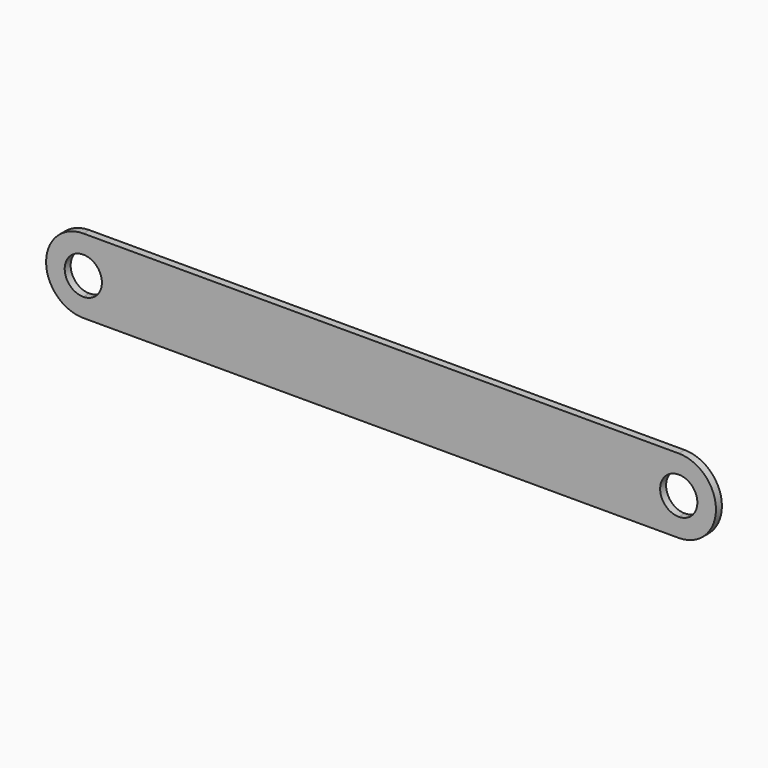
from build123d import *

# Parameters (mm, degrees)
F1_DEPTH = 0.635


with BuildPart() as f1:
    # F0 (on Front) → F1 (new body, symmetric)
    with BuildSketch(Plane.XZ):
        with BuildLine():
            Line((-50.8, -6.35), (50.8, -6.35))
            Line((50.8, -6.35), (50.8, -3.175))
            ThreePointArc((50.8, -3.175), (47.625, 0), (50.8, 3.175))
            Line((50.8, 3.175), (50.8, 6.35))
            Line((50.8, 6.35), (-50.8, 6.35))
            Line((-50.8, 6.35), (-50.8, 3.175))
            ThreePointArc((-50.8, 3.175), (-48.554936, 2.245064), (-47.625, 0))
            ThreePointArc((-47.625, 0), (-48.554936, -2.245064), (-50.8, -3.175))
            Line((-50.8, -3.175), (-50.8, -6.35))
        make_face()
        with BuildLine():
            Line((50.8, -3.175), (50.8, -6.35))
            ThreePointArc((50.8, -6.35), (57.15, 0), (50.8, 6.35))
            Line((50.8, 6.35), (50.8, 3.175))
            ThreePointArc((50.8, 3.175), (53.045064, 2.245064), (53.975, 0))
            ThreePointArc((53.975, 0), (53.045064, -2.245064), (50.8, -3.175))
        make_face()
        with BuildLine():
            ThreePointArc((-50.8, 6.35), (-57.15, 0), (-50.8, -6.35))
            Line((-50.8, -6.35), (-50.8, -3.175))
            ThreePointArc((-50.8, -3.175), (-53.975, 0), (-50.8, 3.175))
            Line((-50.8, 3.175), (-50.8, 6.35))
        make_face()
    extrude(amount=F1_DEPTH, both=True)


solid = f1.part
